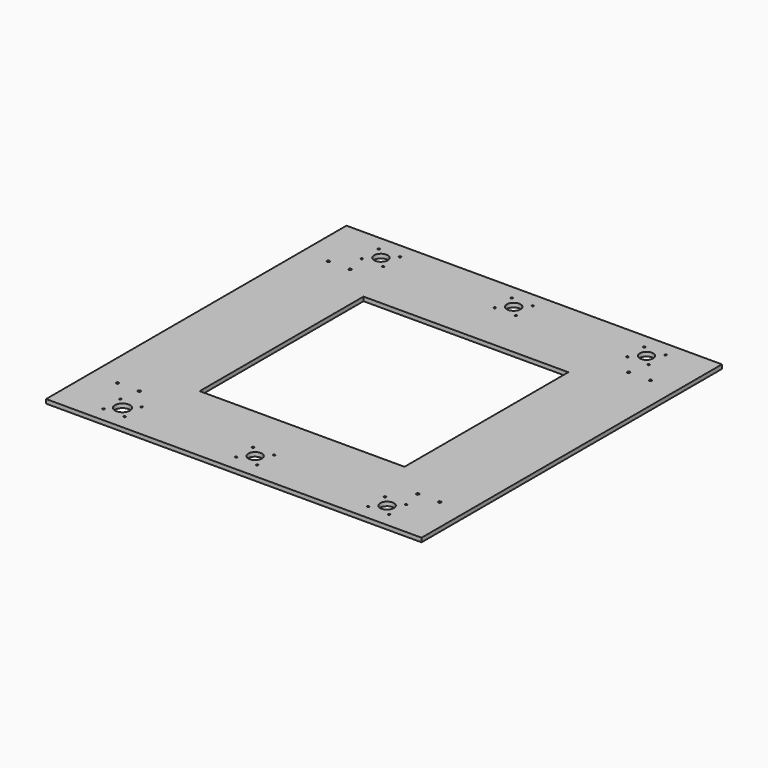
from build123d import *

# Parameters (mm, degrees)
F0_W     = 550
F0_H     = 550
F1_DEPTH = 6
F2_W     = 300
F2_H     = 300
F3_DEPTH = 6
F4_R     = 1.5
F4_R_2   = 10
F4_R_3   = 11
F4_R_4   = 2
F5_DEPTH = 25


with BuildPart() as f1:
    # F0 (on Top) → F1 (new body)
    with BuildSketch(Plane.XY):
        Rectangle(F0_W, F0_H)
    extrude(amount=F1_DEPTH)

    # F2 (on face) → F3 (cut, through all)
    with BuildSketch(Plane.XY.offset(6)):
        Rectangle(F2_W, F2_H)
    extrude(amount=-F3_DEPTH, mode=Mode.SUBTRACT)

    # F4 (on face) + F0 (on Top) → F5 (cut)
    with BuildSketch(Plane.XY.offset(6)):
        with Locations((-179, 253)):
            Circle(F4_R)
        with Locations((-210, 253)):
            Circle(F4_R)
        with Locations((-210, 222)):
            Circle(F4_R)
        with Locations((-179, 222)):
            Circle(F4_R)
        with Locations((-194.5, 237.5)):
            Circle(F4_R_2)
        with Locations((210, 253)):
            Circle(F4_R)
        with Locations((179, 253)):
            Circle(F4_R)
        with Locations((179, 222)):
            Circle(F4_R)
        with Locations((210, 222)):
            Circle(F4_R)
        with Locations((194.5, 237.5)):
            Circle(F4_R_2)
        with Locations((15.5, 253)):
            Circle(F4_R)
        with Locations((-15.5, 253)):
            Circle(F4_R)
        with Locations((-15.5, 222)):
            Circle(F4_R)
        with Locations((15.5, 222)):
            Circle(F4_R)
        with Locations((0, 237.5)):
            Circle(F4_R_2)
        with Locations((-177.5, -222)):
            Circle(F4_R)
        with Locations((-208.5, -222)):
            Circle(F4_R)
        with Locations((-208.5, -253)):
            Circle(F4_R)
        with Locations((-177.5, -253)):
            Circle(F4_R)
        with Locations((-193, -237.5)):
            Circle(F4_R_3)
        with Locations((210, -222)):
            Circle(F4_R)
        with Locations((179, -222)):
            Circle(F4_R)
        with Locations((179, -253)):
            Circle(F4_R)
        with Locations((210, -253)):
            Circle(F4_R)
        with Locations((194.5, -237.5)):
            Circle(F4_R_2)
        with Locations((15.5, -220.5)):
            Circle(F4_R)
        with Locations((-15.5, -220.5)):
            Circle(F4_R)
        with Locations((-15.5, -251.5)):
            Circle(F4_R)
        with Locations((15.5, -251.5)):
            Circle(F4_R)
        with Locations((0, -236)):
            Circle(F4_R_2)
        with Locations((-236, 193)):
            Circle(F4_R_4)
        with Locations((-204, 193)):
            Circle(F4_R_4)
        with Locations((-236, -193)):
            Circle(F4_R_4)
        with Locations((-204, -193)):
            Circle(F4_R_4)
        with Locations((236, -193)):
            Circle(F4_R_4)
        with Locations((204, -193)):
            Circle(F4_R_4)
        with Locations((204, 193)):
            Circle(F4_R_4)
        with Locations((236, 193)):
            Circle(F4_R_4)
    with BuildSketch(Plane.XY):
        Rectangle(F0_W, F0_H)
    extrude(amount=-F5_DEPTH, mode=Mode.SUBTRACT)


solid = f1.part
